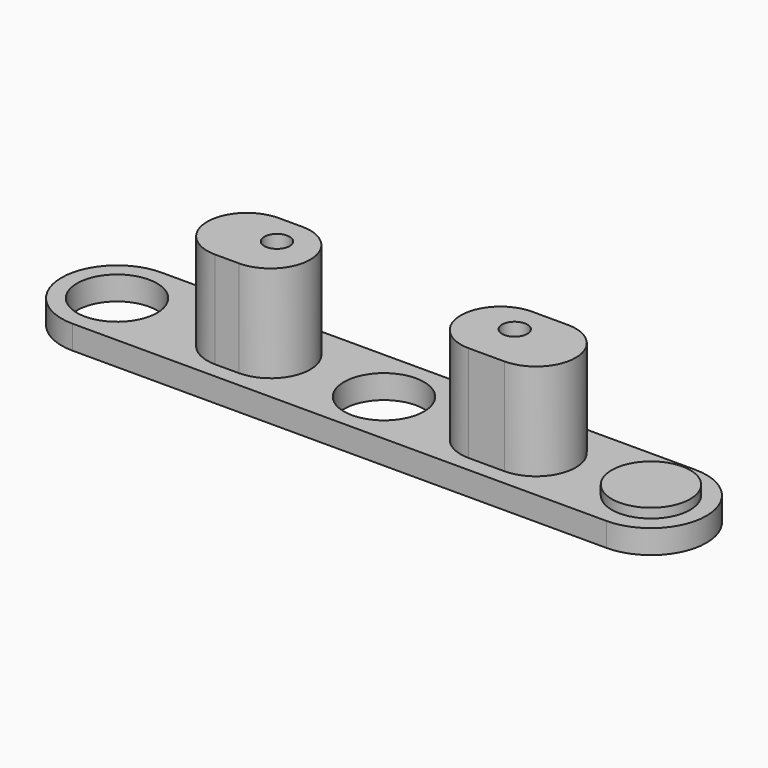
from build123d import *

# Parameters (mm, degrees)
PAD008_DEPTH    = 3
PAD009_DEPTH    = 15.2
SKETCH025_R     = 5.05
SKETCH025_R_2   = 1.6
POCKET_DEPTH    = 15.2
SKETCH026_R     = 4.95
PAD010_DEPTH    = 1.2
SKETCH027_R     = 3.45
POCKET001_DEPTH = 13


with BuildPart() as leftdrivegearretainerbody:
    # Sketch023 → Pad008 (new body)
    with BuildSketch(Plane.XY.offset(12.2)):
        with BuildLine():
            ThreePointArc((-67.387162, 7), (-74.387162, 0), (-67.387162, -7))
            Line((-67.387162, -7), (0, -7))
            ThreePointArc((0, -7), (7, 0), (0, 7))
            Line((-67.387162, 7), (0, 7))
        make_face()
    extrude(amount=PAD008_DEPTH)

    # Sketch024 → Pad009 (join)
    with BuildSketch(Plane.XY):
        with BuildLine():
            ThreePointArc((-19, 5), (-24, 0), (-19, -5))
            Line((-19, -5), (-14.5, -5))
            ThreePointArc((-14.5, -5), (-9.5, 0), (-14.5, 5))
            Line((-19, 5), (-14.5, 5))
        make_face()
        with BuildLine():
            ThreePointArc((-51, 5), (-56, 0), (-51, -5))
            Line((-51, -5), (-48, -5))
            ThreePointArc((-48, -5), (-43, 0), (-48, 5))
            Line((-51, 5), (-48, 5))
        make_face()
    extrude(amount=PAD009_DEPTH)

    # Sketch025 → Pocket (cut)
    with BuildSketch(Plane.XY):
        with Locations((-33.693581, 0)):
            Circle(SKETCH025_R)
        with Locations((-67.387162, 0)):
            Circle(SKETCH025_R)
        with Locations((-18, 1)):
            Circle(SKETCH025_R_2)
        with Locations((-48, 1)):
            Circle(SKETCH025_R_2)
    extrude(amount=POCKET_DEPTH, mode=Mode.SUBTRACT)

    # Sketch026 → Pad010 (join)
    with BuildSketch(Plane.XY.offset(12.2)):
        Circle(SKETCH026_R)
    extrude(amount=-PAD010_DEPTH)

    # Sketch027 → Pocket001 (cut)
    with BuildSketch(Plane.XY.offset(15.2)):
        with Locations((-18, 1)):
            Circle(SKETCH027_R)
        with Locations((-48, 1)):
            Circle(SKETCH027_R)
    extrude(amount=-POCKET001_DEPTH, mode=Mode.SUBTRACT)


with BuildPart() as rightdrivegearretainer_printable:
    # Part__Mirroring004: instance of LeftDriveGearRetainerBody
    add(leftdrivegearretainerbody.part.mirror(Plane(origin=(0, 0, 0), x_dir=(0, 1, 0), z_dir=(0, 0, 1))))


with BuildPart() as rightdrivegearretainer_printable_1:
    # Clone007 placement: moved
    add(rightdrivegearretainer_printable.part.moved(Location((0, -2, 15))))


solid = rightdrivegearretainer_printable_1.part
